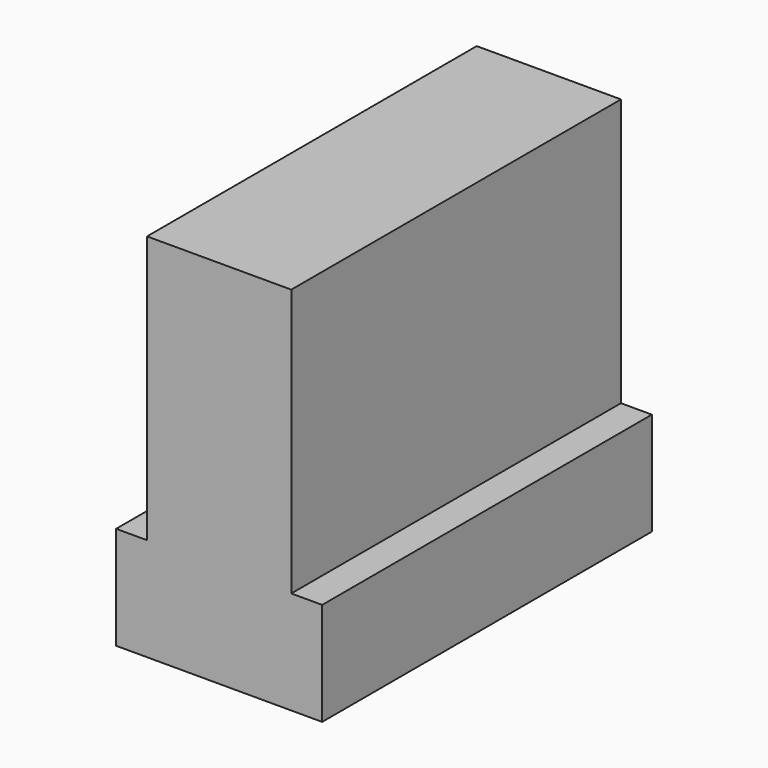
from build123d import *

# Parameters (mm, degrees)
F1_DEPTH = 20


with BuildPart() as f1:
    # F0 (on Front) → F1 (new body, symmetric)
    with BuildSketch(Plane.XZ):
        Polygon((-7, 25.960985), (-7, 0), (-10, 0), (-10, -10), (0, -10), (0, 25.960985), align=None)
    extrude(amount=F1_DEPTH, both=True)

    # F2: F1 across face


with BuildPart() as f1_1:
    add(f1.part)
    add(f1.part.mirror(Plane(origin=(0, 0, 7.980493), x_dir=(0, 1, 0), z_dir=(1, 0, 0))))


solid = f1_1.part
